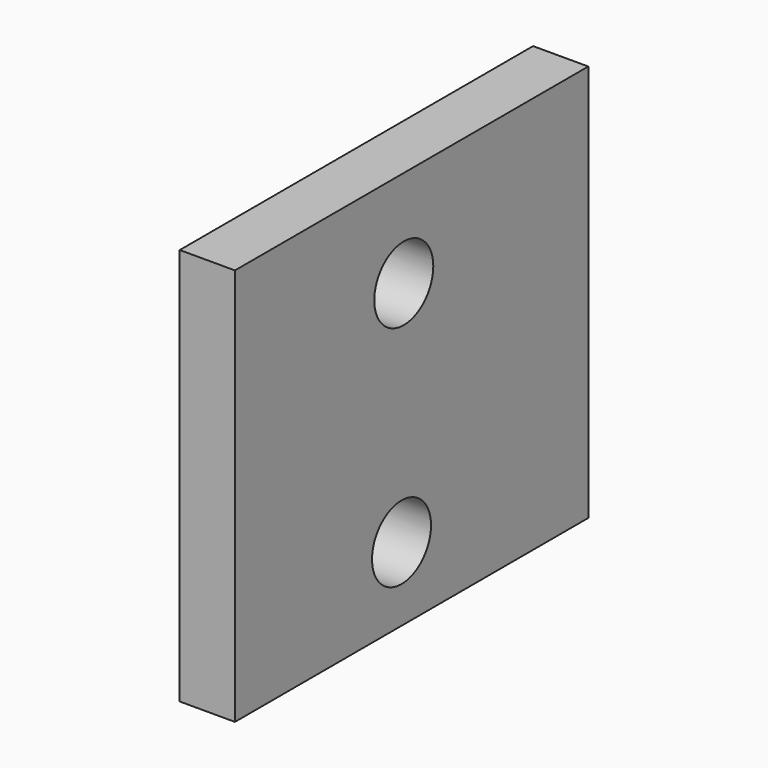
from build123d import *

# Parameters (mm, degrees)
F0_W     = 3.175
F0_H     = 22.86
F1_DEPTH = 25.4
F2_R     = 2.1209
F3_DEPTH = 4.2418


with BuildPart() as f1:
    # F0 (on Front) → F1 (new body)
    with BuildSketch(Plane.XZ):
        with Locations((-8.904669, -3.521121)):
            Rectangle(F0_W, F0_H)
    extrude(amount=F1_DEPTH)

    # F2 (on face) → F3 (cut)
    with BuildSketch(Plane.YZ.offset(-7.317169)):
        with Locations((-13.262228, 2.324401)):
            Circle(F2_R)
        with Locations((-13.424299, -10.7223)):
            Circle(F2_R)
    extrude(amount=-F3_DEPTH, mode=Mode.SUBTRACT)


solid = f1.part
